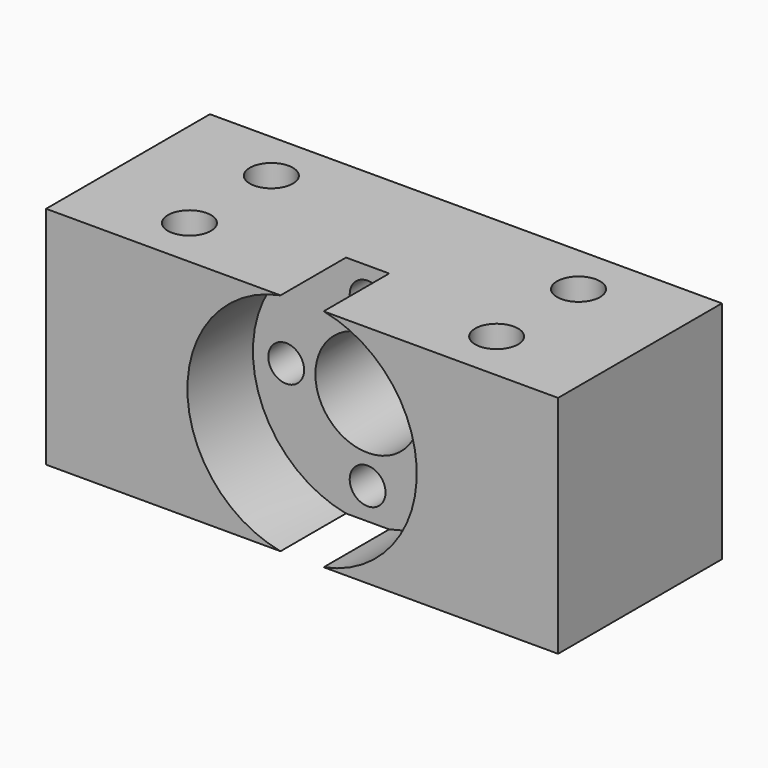
from build123d import *

# Parameters (mm, degrees)
SKETCH_W        = 50
SKETCH_H        = 20
SKETCH_R        = 2.1
PAD_DEPTH       = 22
SKETCH001_R     = 11.2
POCKET_DEPTH    = 8
SKETCH002_R     = 5.1
SKETCH002_R_2   = 1.75
POCKET001_DEPTH = 20


with BuildPart() as part:
    # Sketch → Pad (new body)
    with BuildSketch(Plane.XY):
        with Locations((25, 10)):
            Rectangle(SKETCH_W, SKETCH_H)
        with Locations((10, 15)):
            Circle(SKETCH_R, mode=Mode.SUBTRACT)
        with Locations((10, 5)):
            Circle(SKETCH_R, mode=Mode.SUBTRACT)
        with Locations((40, 15)):
            Circle(SKETCH_R, mode=Mode.SUBTRACT)
        with Locations((40, 5)):
            Circle(SKETCH_R, mode=Mode.SUBTRACT)
    extrude(amount=PAD_DEPTH)

    # Sketch001 (on Face3 of Pad) → Pocket (cut)
    with BuildSketch(Plane.XZ):
        with Locations((25, 11)):
            Circle(SKETCH001_R)
    extrude(amount=-POCKET_DEPTH, mode=Mode.SUBTRACT)

    # Sketch002 (on Face1 of Pocket) → Pocket001 (cut)
    with BuildSketch(Plane(origin=(0, 20, 0), x_dir=(-1, 0, 0), z_dir=(0, 1, 0))):
        with Locations((-25, 11)):
            Circle(SKETCH002_R)
        with Locations((-25, 18.95)):
            Circle(SKETCH002_R_2)
        with Locations((-25, 3.05)):
            Circle(SKETCH002_R_2)
        with Locations((-32.95, 11)):
            Circle(SKETCH002_R_2)
        with Locations((-17.05, 11)):
            Circle(SKETCH002_R_2)
    extrude(amount=-POCKET001_DEPTH, mode=Mode.SUBTRACT)


solid = part.part
